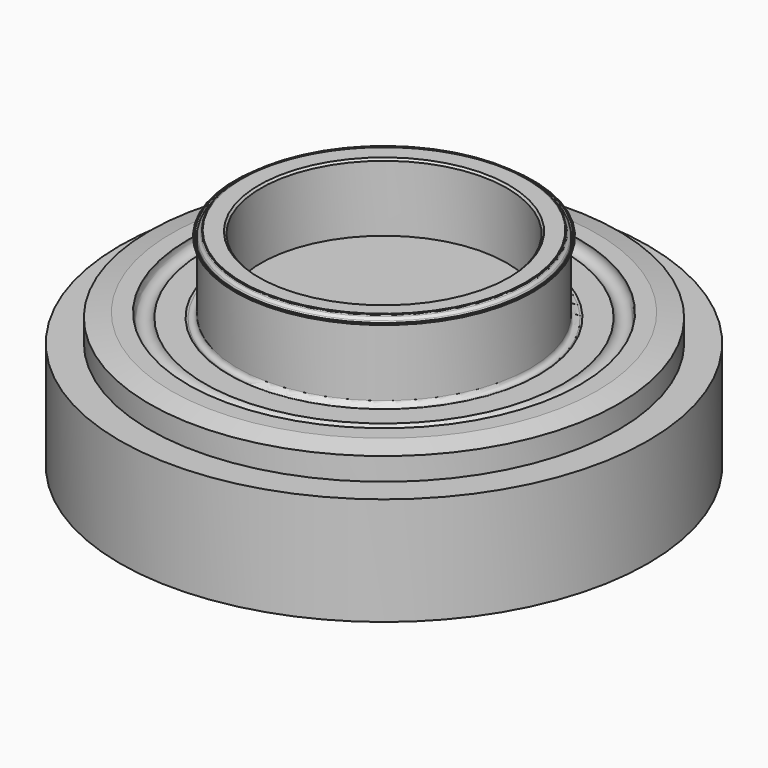
from build123d import *

# Parameters (mm, degrees)
F2_SIZE = 0.35


with BuildPart() as f1:
    # F0 (on Front) → F1 (revolve)
    with BuildSketch(Plane.XZ):
        with BuildLine():
            Line((24.884315, 0), (21.625, 0))
            Line((21.625, 0), (21.625, -11.937088))
            Line((21.625, -11.937088), (0, -11.937088))
            Line((0, -11.937088), (0, -36.275))
            Line((0, -36.275), (31.5125, -36.275))
            Line((31.5125, -36.275), (31.5125, -13.325))
            Line((31.5125, -13.325), (27.233975, -13.325))
            Line((27.233975, -13.325), (26.9, -13.51782))
            ThreePointArc((26.9, -13.51782), (26.1, -13.51782), (25.7, -12.825))
            Line((25.7, -12.825), (25.7, -0.815685))
            ThreePointArc((25.7, -0.815685), (25.669552, -0.662612), (25.582843, -0.532843))
            Line((25.582843, -0.532843), (25.167157, -0.117157))
            ThreePointArc((25.167157, -0.117157), (25.037388, -0.030448), (24.884315, 0))
        make_face()
        with BuildLine():
            Line((31.5125, -13.325), (31.5125, -36.275))
            Line((31.5125, -36.275), (37.415, -36.275))
            Line((37.415, -36.275), (37.415, -12.525))
            Line((37.415, -12.525), (34.444142, -12.525))
            ThreePointArc((34.444142, -12.525), (33.378321, -14.390821), (31.5125, -13.325))
        make_face()
        Polygon((37.415, -12.525), (37.415, -36.275), (46.403397, -36.275), (46.403397, -17.300496), (41.185025, -17.300496), (41.185025, -13.327415), align=None)
        Polygon((26.2, -0.867157), (26.2, -0.65), (25.982843, -0.65), (26.053553, -0.720711), align=None)
        Polygon((25.091421, 0.1), (24.991421, 0.2), (24.892426, 0.2), (24.992426, 0.1), align=None)
    revolve(axis=Axis((0, 0, -24.106044), (0, 0, -1)))

    # F2
    f2_edges = [f1.edges().sort_by_distance(p)[0] for p in [
        (-21.625, 0, 0),
    ]]
    chamfer(f2_edges, length=F2_SIZE)


solid = f1.part
